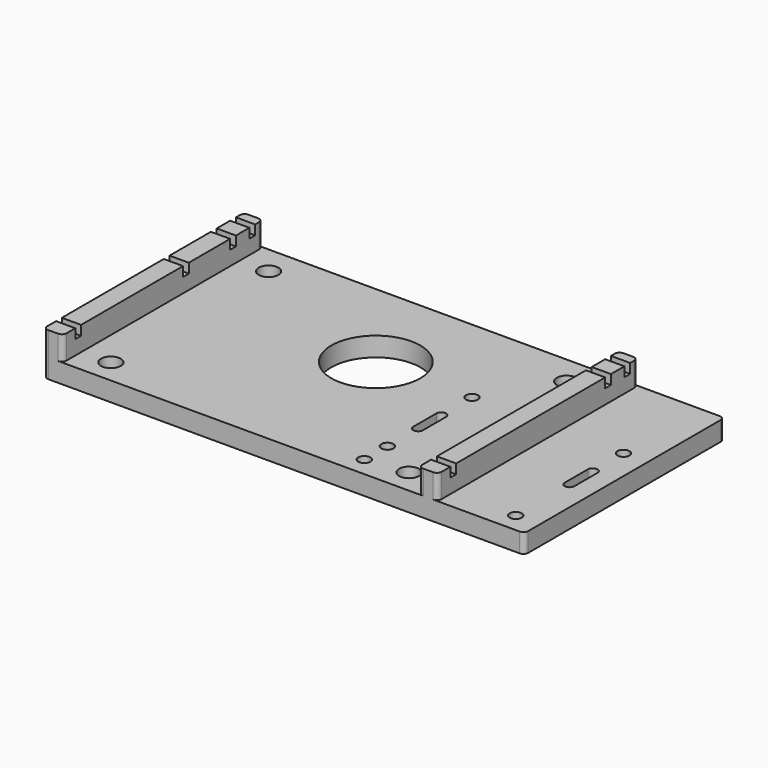
from build123d import *

# Parameters (mm, degrees)
SKETCH_W        = 100
SKETCH_H        = 52
SKETCH_R        = 1.25
SKETCH_R_2      = 9.25
PAD_DEPTH       = 4
SKETCH001_W     = 4
SKETCH001_H     = 52
PAD001_DEPTH    = 5
SKETCH002_W     = 82
SKETCH002_H     = 1.5
POCKET_DEPTH    = 2
SKETCH003_R     = 2.05
POCKET001_DEPTH = 5
FILLET_R        = 1
FILLET001_R     = 1
SKETCH004_W     = 4
SKETCH004_H     = 1.5
POCKET002_DEPTH = 2


with BuildPart() as part:
    # Sketch → Pad (new body)
    with BuildSketch(Plane.XY):
        with Locations((0, 5)):
            Rectangle(SKETCH_W, SKETCH_H)
        with Locations((13.5, 11)):
            Circle(SKETCH_R, mode=Mode.SUBTRACT)
        with Locations((13.5, -11)):
            Circle(SKETCH_R, mode=Mode.SUBTRACT)
        with Locations((13.5, -17)):
            Circle(SKETCH_R, mode=Mode.SUBTRACT)
        with Locations((45, -17)):
            Circle(SKETCH_R, mode=Mode.SUBTRACT)
        with Locations((45, 11)):
            Circle(SKETCH_R, mode=Mode.SUBTRACT)
        with Locations((-6.5, 11)):
            Circle(SKETCH_R_2, mode=Mode.SUBTRACT)
        with BuildLine():
            Line((46, 3), (46, -3))
            ThreePointArc((44, -3), (45, -4), (46, -3))
            Line((44, -3), (44, 3))
            ThreePointArc((46, 3), (45, 4), (44, 3))
        make_face(mode=Mode.SUBTRACT)
        with BuildLine():
            Line((14.5, 3), (14.5, -3))
            ThreePointArc((12.5, -3), (13.5, -4), (14.5, -3))
            Line((12.5, 3), (12.5, -3))
            ThreePointArc((14.5, 3), (13.5, 4), (12.5, 3))
        make_face(mode=Mode.SUBTRACT)
    extrude(amount=PAD_DEPTH)

    # Sketch001 (on Face20 of Pad) → Pad001 (join)
    with BuildSketch(Plane.XY.offset(4)):
        with Locations((-48, 5)):
            Rectangle(SKETCH001_W, SKETCH001_H)
        with Locations((30, 5)):
            Rectangle(SKETCH001_W, SKETCH001_H)
    extrude(amount=PAD001_DEPTH)

    # Sketch002 (on Face26 of Pad001) → Pocket (cut)
    with BuildSketch(Plane.XY.offset(9)):
        with Locations((-9, 28.25)):
            Rectangle(SKETCH002_W, SKETCH002_H)
        with Locations((-9, 23.25)):
            Rectangle(SKETCH002_W, SKETCH002_H)
        with Locations((-9, -17)):
            Rectangle(SKETCH002_W, SKETCH002_H)
    extrude(amount=-POCKET_DEPTH, mode=Mode.SUBTRACT)

    # Sketch003 (on Face6 of Pocket) → Pocket001 (cut)
    with BuildSketch(Plane.XY.offset(4)):
        with Locations((-40, 25)):
            Circle(SKETCH003_R)
        with Locations((-40, -16)):
            Circle(SKETCH003_R)
        with Locations((22, 25)):
            Circle(SKETCH003_R)
        with Locations((22, -16)):
            Circle(SKETCH003_R)
    extrude(amount=-POCKET001_DEPTH, mode=Mode.SUBTRACT)

    # Fillet
    fillet_edges = [part.edges().sort_by_distance(p)[0] for p in [
        (-50, -21, 2),
        (50, -21, 2),
        (50, 31, 2),
        (-50, 31, 2),
    ]]
    fillet(fillet_edges, radius=FILLET_R)

    # Fillet001
    fillet001_edges = [part.edges().sort_by_distance(p)[0] for p in [
        (-46, 31, 6.5),
        (-46, -21, 6.5),
        (28, 31, 6.5),
        (32, 31, 6.5),
        (28, -21, 6.5),
        (32, -21, 6.5),
    ]]
    fillet(fillet001_edges, radius=FILLET001_R)

    # Sketch004 (on Face41 of Fillet001) → Pocket002 (cut)
    with BuildSketch(Plane.XY.offset(9)):
        with Locations((-48, 11)):
            Rectangle(SKETCH004_W, SKETCH004_H)
    extrude(amount=-POCKET002_DEPTH, mode=Mode.SUBTRACT)


solid = part.part
